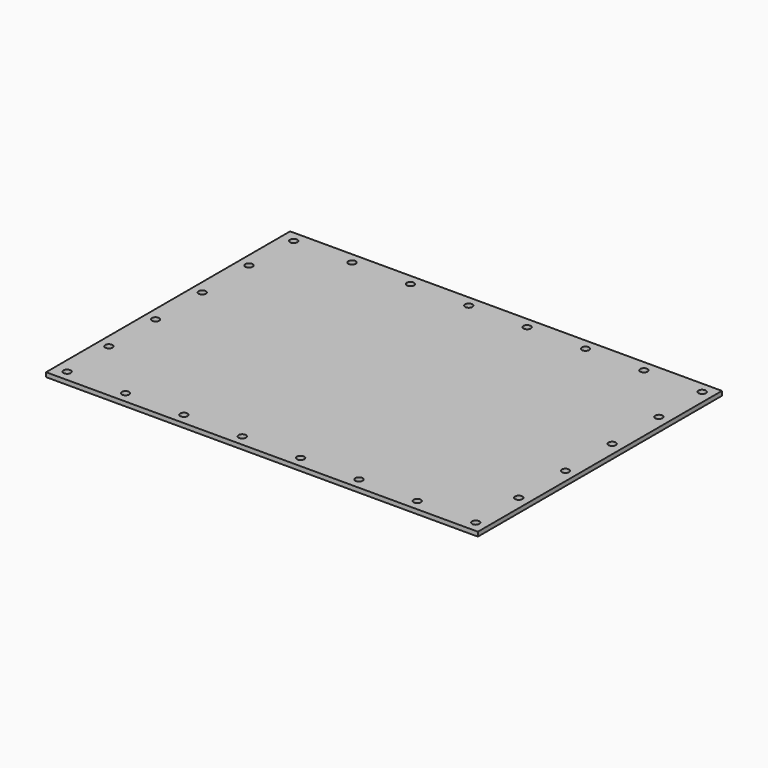
from build123d import *

# Parameters (mm, degrees)
F0_W     = 295.944
F0_H     = 3
F1_DEPTH = 209.05
F2_R     = 2.5
F3_DEPTH = 3


with BuildPart() as f1:
    # F0 (on Front) → F1 (new body)
    with BuildSketch(Plane.XZ):
        with Locations((147.972, 1.5)):
            Rectangle(F0_W, F0_H)
    extrude(amount=F1_DEPTH)

    # F2 (on face) → F3 (cut, through all)
    with BuildSketch(Plane.XY.offset(3)):
        with Locations((288.444, -44.65)):
            Circle(F2_R)
        with Locations((288.444, -84.65)):
            Circle(F2_R)
        with Locations((288.444, -164.65)):
            Circle(F2_R)
        with Locations((288.444, -124.65)):
            Circle(F2_R)
        with Locations((288.444, -201.55)):
            Circle(F2_R)
        with Locations((248.444, -201.55)):
            Circle(F2_R)
        with Locations((208.444, -201.55)):
            Circle(F2_R)
        with Locations((168.444, -201.55)):
            Circle(F2_R)
        with Locations((128.444, -201.55)):
            Circle(F2_R)
        with Locations((88.444, -201.55)):
            Circle(F2_R)
        with Locations((48.444, -201.55)):
            Circle(F2_R)
        with Locations((8.444, -201.55)):
            Circle(F2_R)
        with Locations((7.5, -164.65)):
            Circle(F2_R)
        with Locations((7.5, -124.65)):
            Circle(F2_R)
        with Locations((7.5, -84.65)):
            Circle(F2_R)
        with Locations((7.5, -44.65)):
            Circle(F2_R)
        with Locations((8.444, -7.5)):
            Circle(F2_R)
        with Locations((48.444, -7.5)):
            Circle(F2_R)
        with Locations((88.444, -7.5)):
            Circle(F2_R)
        with Locations((128.444, -7.5)):
            Circle(F2_R)
        with Locations((168.444, -7.5)):
            Circle(F2_R)
        with Locations((208.444, -7.5)):
            Circle(F2_R)
        with Locations((248.444, -7.5)):
            Circle(F2_R)
        with Locations((288.444, -7.5)):
            Circle(F2_R)
    extrude(amount=-F3_DEPTH, mode=Mode.SUBTRACT)


solid = f1.part
